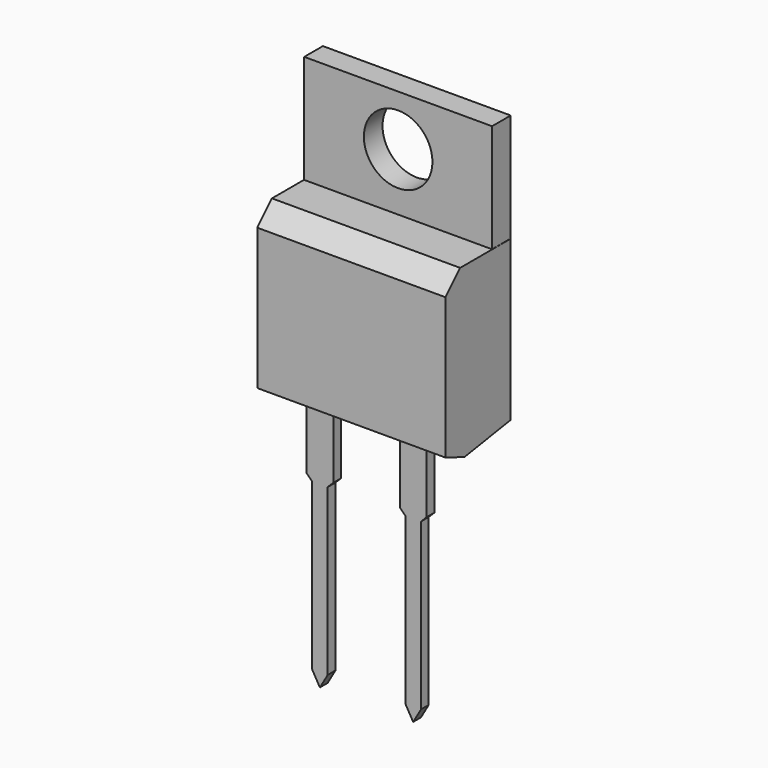
from build123d import *

# Parameters (mm, degrees)
SKETCH004_W  = 10.23
SKETCH004_H  = 1.27
PAD002_DEPTH = 13.775
SKETCH005_R  = 1.8675
POCKET_DEPTH = 1.271
PAD_DEPTH    = 0.2625
PAD001_DEPTH = 5.125


with BuildPart() as pocket:
    # Sketch004 → Pad002 (new body)
    with BuildSketch(Plane.XY.offset(5)):
        with Locations((2.54, 2.525)):
            Rectangle(SKETCH004_W, SKETCH004_H)
    extrude(amount=PAD002_DEPTH)

    # Sketch005 → Pocket (cut, through all)
    with BuildSketch(Plane(origin=(0, 1.89, 5), x_dir=(1, 0, 0), z_dir=(0, -1, 0))):
        with Locations((2.54, 11.005)):
            Circle(SKETCH005_R)
    extrude(amount=-POCKET_DEPTH, mode=Mode.SUBTRACT)


with BuildPart() as pad:
    # Sketch → Pad (new body, symmetric)
    with BuildSketch(Plane.XZ):
        Polygon((-0.73, 0.3025), (-0.4275, 0), (-0.4275, -9.009548), (0, -9.75), (0.4275, -9.009548), (0.4275, 0), (0.73, 0.3025), (0.73, 3.73), (-0.73, 3.73), align=None)
        Polygon((4.35, 0.3025), (4.6525, 0), (4.6525, -9.009548), (5.08, -9.75), (5.5075, -9.009548), (5.5075, 0), (5.81, 0.3025), (5.81, 3.73), (4.35, 3.73), align=None)
    extrude(amount=PAD_DEPTH, both=True)


with BuildPart() as to_220_2_vertical:
    # Sketch001 → Pad001 (new body, symmetric)
    with BuildSketch(Plane.YZ.offset(2.54)):
        Polygon((0, 3.685), (-1.295, 4.185), (-1.295, 11.875), (-0.295, 12.875), (3.15, 12.875), (3.15, 4.185), align=None)
    extrude(amount=PAD001_DEPTH, both=True)

    add(pocket.part)
    add(pad.part)


solid = to_220_2_vertical.part
